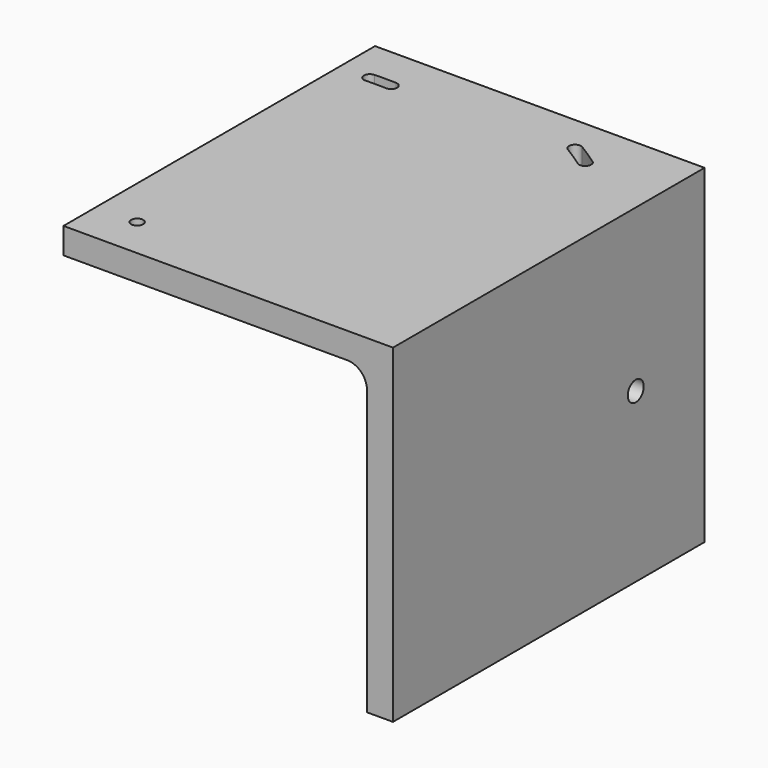
from build123d import *

# Parameters (mm, degrees)
F1_DEPTH = 195
F2_R     = 3
F3_DEPTH = 25
F4_R     = 5
F5_DEPTH = 25


with BuildPart() as f1:
    # F0 (on Front) → F1 (new body)
    with BuildSketch(Plane.XZ):
        with BuildLine():
            Line((-1.160396, -84.100497), (-1.160396, 80.899503))
            Line((-1.160396, 80.899503), (-166.160396, 80.899503))
            Line((-166.160396, 80.899503), (-166.160396, 67.899503))
            Line((-166.160396, 67.899503), (-24.160396, 67.899503))
            ThreePointArc((-24.160396, 67.899503), (-17.089328, 64.970571), (-14.160396, 57.899503))
            Line((-14.160396, 57.899503), (-14.160396, -84.100497))
            Line((-14.160396, -84.100497), (-1.160396, -84.100497))
        make_face()
    extrude(amount=F1_DEPTH)

    # F2 (on face) → F3 (cut)
    with BuildSketch(Plane.XY.offset(80.899503)):
        with BuildLine():
            ThreePointArc((-150.911415, -25.154715), (-145.69743, -25.063704), (-140.483445, -25.154715))
            ThreePointArc((-140.483445, -25.154715), (-137.380574, -22.261241), (-140.274048, -19.15837))
            ThreePointArc((-140.274048, -19.15837), (-145.69743, -19.063704), (-151.120812, -19.15837))
            ThreePointArc((-151.120812, -19.15837), (-154.014286, -22.261241), (-150.911415, -25.154715))
        make_face()
        with BuildLine():
            ThreePointArc((-38.707305, -23.19722), (-44.051604, -19.555466), (-49.519744, -16.102444))
            ThreePointArc((-49.519744, -16.102444), (-53.641179, -17.109306), (-52.634317, -21.230741))
            ThreePointArc((-52.634317, -21.230741), (-47.343255, -24.571942), (-42.172023, -28.095764))
            ThreePointArc((-42.172023, -28.095764), (-37.990392, -27.378851), (-38.707305, -23.19722))
        make_face()
        with Locations((-145.69743, -174.463704)):
            Circle(F2_R)
    extrude(amount=-F3_DEPTH, mode=Mode.SUBTRACT)

    # F4 (on face) → F5 (cut)
    with BuildSketch(Plane.YZ.offset(-1.160396)):
        with Locations((-43.040507, 0)):
            Circle(F4_R)
    extrude(amount=-F5_DEPTH, mode=Mode.SUBTRACT)


solid = f1.part
